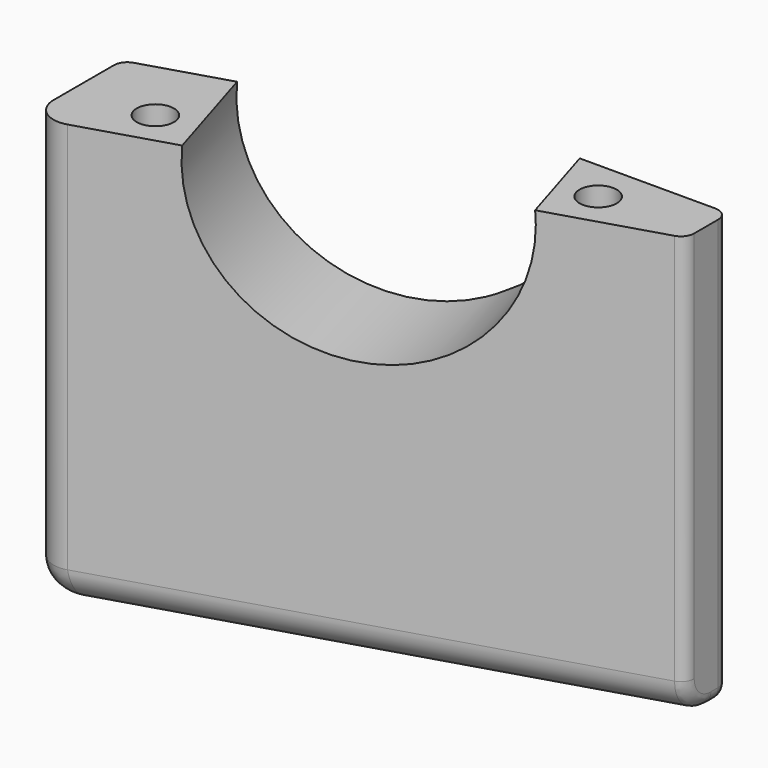
from build123d import *

# Parameters (mm, degrees)
PAD005_DEPTH      = 31
PAD005_DEPTH_BACK = 1
SKETCH005_R       = 11.2
POCKET_DEPTH      = 15.56696
POCKET006_DEPTH   = 22
SKETCH016_R       = 1.4
POCKET009_DEPTH   = 15
FILLET003_R       = 2.5
FILLET004_R       = 1
FILLET005_R       = 1
FILLET006_R       = 1
FILLET007_R       = 0.5


with BuildPart() as part:
    # Sketch004 → Pad005 (new body, two sides)
    with BuildSketch(Plane.XY) as pad005_sk:
        with BuildLine():
            Line((41.8431, -62), (1.8431, -62))
            Line((1.8431, -62), (1.8431, -75.526382))
            ThreePointArc((1.8431, -75.526382), (2.653454, -77.134096), (4.427843, -77.438992))
            Line((4.427843, -77.438992), (41.8431, -66))
            Line((41.8431, -66), (41.8431, -62))
        make_face()
    extrude(amount=PAD005_DEPTH)
    extrude(pad005_sk.sketch, amount=-PAD005_DEPTH_BACK)

    # Sketch005 → Pocket (cut, through all)
    with BuildSketch(Plane(origin=(22.043577, -72.101291, 0), x_dir=(0.956305, 0.292372, 0), z_dir=(0.292372, -0.956305, 0))):
        with Locations((0, 30)):
            Circle(SKETCH005_R)
    extrude(amount=-POCKET_DEPTH, mode=Mode.SUBTRACT)

    # Sketch007 → Pocket006 (cut)
    with BuildSketch(Plane.XY.offset(31)):
        Polygon((-4.66376, -53.953282), (-5.90948, -71.46493), (38.1328, -58.000022), (37.116007, -54.0061), align=None)
    extrude(amount=-POCKET006_DEPTH, mode=Mode.SUBTRACT)

    # Sketch016 → Pocket009 (cut)
    with BuildSketch(Plane.XY.offset(31)):
        with Locations((34.498539, -65.108382)):
            Circle(SKETCH016_R)
        with Locations((7.722005, -73.29479)):
            Circle(SKETCH016_R)
    extrude(amount=-POCKET009_DEPTH, mode=Mode.SUBTRACT)

    # Fillet003
    fillet003_edges = [part.edges().sort_by_distance(p)[0] for p in [
        (23.135472, -71.719496, -1),
    ]]
    fillet(fillet003_edges, radius=FILLET003_R)

    # Fillet004
    fillet004_edges = [part.edges().sort_by_distance(p)[0] for p in [
        (41.8431, -66, 16.25),
    ]]
    fillet(fillet004_edges, radius=FILLET004_R)

    # Fillet005
    fillet005_edges = [part.edges().sort_by_distance(p)[0] for p in [
        (41.8431, -62, 15.5),
    ]]
    fillet(fillet005_edges, radius=FILLET005_R)

    # Fillet006
    fillet006_edges = [part.edges().sort_by_distance(p)[0] for p in [
        (1.8431, -69.094758, 20),
    ]]
    fillet(fillet006_edges, radius=FILLET006_R)

    # Fillet007
    fillet007_edges = [part.edges().sort_by_distance(p)[0] for p in [
        (1.8431, -66.047379, 9),
    ]]
    fillet(fillet007_edges, radius=FILLET007_R)


solid = part.part
